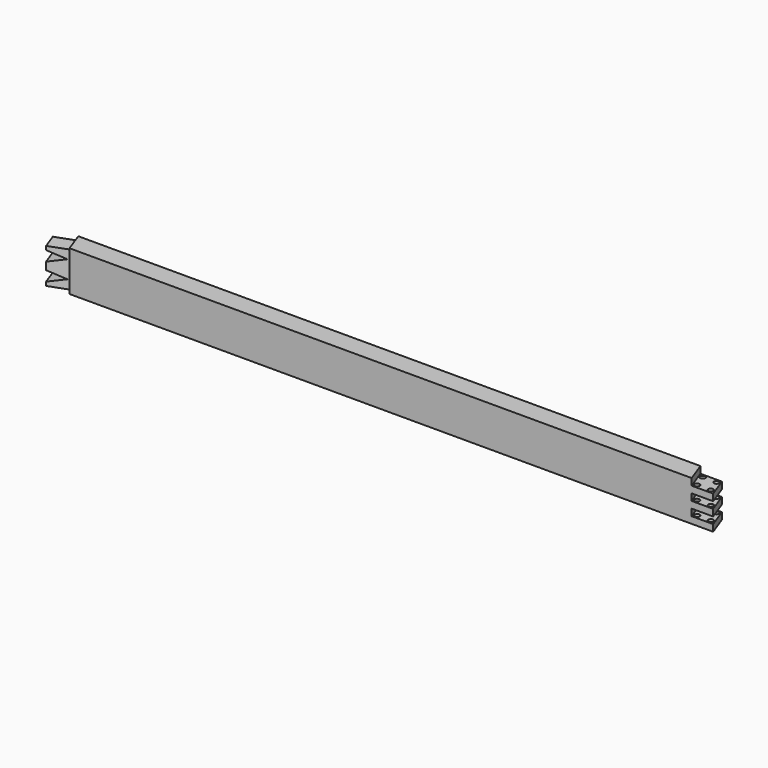
from build123d import *

# Parameters (mm, degrees)
F1_DEPTH  = 50.8
F2_W      = 27.051
F2_H      = 8.4666666667
F5_W      = 20.6801154209
F5_H      = 44.45
F8_DEPTH  = 31.6481136174
F9_R      = 3.175
F10_DEPTH = 42.3343333333


with BuildPart() as f1:
    # F0 (on Top) → F1 (new body)
    with BuildSketch(Plane.XY):
        Polygon((396.206887363, 12.7), (-414.6965752637, 12.7), (-405.4517313133, -12.7), (405.4517313133, -12.7), align=None)
    extrude(amount=F1_DEPTH)

    # F3: sweep along a path in F3_path
    with BuildLine(Plane(origin=(405.4517313133, -12.7, 50.8), x_dir=(0.3420201433, -0.9396926208, 0), z_dir=(0.9396926208, 0.3420201433, 0))) as f3_path:
        Line((0, 0), (-27.0301154209, 0))
    # F2 (on face) → F3 (sweep, cut)
    with BuildSketch(Plane(origin=(0, 12.7, 0), x_dir=(-1, 0, 0), z_dir=(0, 1, 0))):
        with Locations((-382.681387363, 12.7)):
            Rectangle(F2_W, F2_H)
        with Locations((-382.681387363, 29.6333333333)):
            Rectangle(F2_W, F2_H)
        with Locations((-382.681387363, 46.5666666667)):
            Rectangle(F2_W, F2_H)
    sweep(path=f3_path.line, mode=Mode.SUBTRACT)

    # F6: sweep along a path in F4
    with BuildLine(Plane.XY.offset(50.8)) as f6_path:
        Line((-405.4517313133, -12.7), (-429.3199238813, -21.3873116405))
    # F5 (on face) → F6 (sweep)
    with BuildSketch(Plane(origin=(-362.1045898409, -131.7952923933, 0), x_dir=(0.3420201433, -0.9396926208, 0), z_dir=(-0.9396926208, -0.3420201433, 0))):
        with Locations((-140.2536206819, 25.4)):
            Rectangle(F5_W, F5_H)
    sweep(path=f6_path.line)

    # F7 (on face) → F8 (cut, through all)
    with BuildSketch(Plane(origin=(-44.4330554274, 122.0788164643, 0), x_dir=(0.9396926208, 0.3420201433, 0), z_dir=(0.3420201433, -0.9396926208, 0))):
        Polygon((-388.5186558202, 36.5125), (-410.7436558202, 42.8625), (-410.7436558202, 30.1625), align=None)
        Polygon((-388.5186558202, 14.2875), (-410.7436558202, 20.6375), (-410.7436558202, 7.9375), align=None)
    extrude(amount=-F8_DEPTH, mode=Mode.SUBTRACT)

    # F9 (on face) → F10 (cut, through all)
    with BuildSketch(Plane.XY.offset(42.3333333333)):
        with Locations((393.0055384983, 8.128)):
            Circle(F9_R)
        with Locations((375.6853800498, 8.128)):
            Circle(F9_R)
        with Locations((381.602080178, -8.128)):
            Circle(F9_R)
        with Locations((398.9222386265, -8.128)):
            Circle(F9_R)
    extrude(amount=-F10_DEPTH, mode=Mode.SUBTRACT)


solid = f1.part
